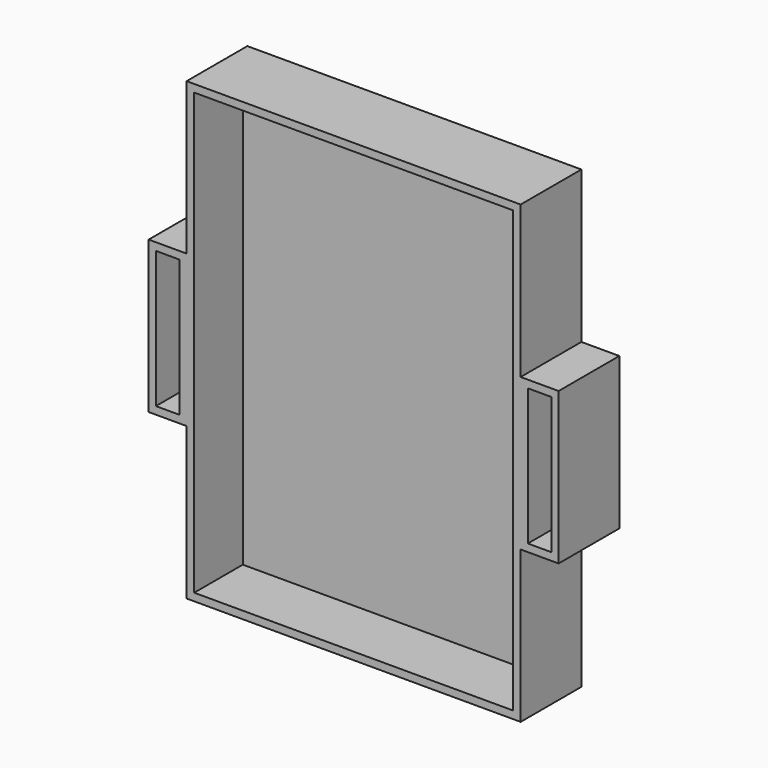
from build123d import *

# Parameters (mm, degrees)
F0_W     = 55.88
F0_H     = 76.2
F1_DEPTH = 12.7
F2_W     = 53.34
F2_H     = 73.66
F3_DEPTH = 10.16
F4_W     = 12.7
F4_H     = 25.4
F5_DEPTH = 6.35
F6_W     = 12.7
F6_H     = 25.4
F7_DEPTH = 6.35
F8_W     = 3.937
F8_H     = 22.86
F9_DEPTH = 25.4


with BuildPart() as f1:
    # F0 (on Front) → F1 (new body)
    with BuildSketch(Plane.XZ):
        Rectangle(F0_W, F0_H)
    extrude(amount=F1_DEPTH)

    # F2 (on face) → F3 (cut)
    with BuildSketch(Plane.XZ.offset(12.7)):
        Rectangle(F2_W, F2_H)
    extrude(amount=-F3_DEPTH, mode=Mode.SUBTRACT)

    # F4 (on face) → F5 (join)
    with BuildSketch(Plane.YZ.offset(27.94)):
        with Locations((-6.35, 0)):
            Rectangle(F4_W, F4_H)
    extrude(amount=F5_DEPTH)

    # F6 (on face) → F7 (join)
    with BuildSketch(Plane(origin=(-27.94, 0, 0), x_dir=(0, -1, 0), z_dir=(-1, 0, 0))):
        with Locations((6.35, 0)):
            Rectangle(F6_W, F6_H)
    extrude(amount=F7_DEPTH)

    # F8 (on face) → F9 (cut)
    with BuildSketch(Plane.XZ.offset(12.7)):
        with Locations((-31.115, 0)):
            Rectangle(F8_W, F8_H)
        with Locations((31.115, 0)):
            Rectangle(F8_W, F8_H)
    extrude(amount=-F9_DEPTH, mode=Mode.SUBTRACT)


solid = f1.part
